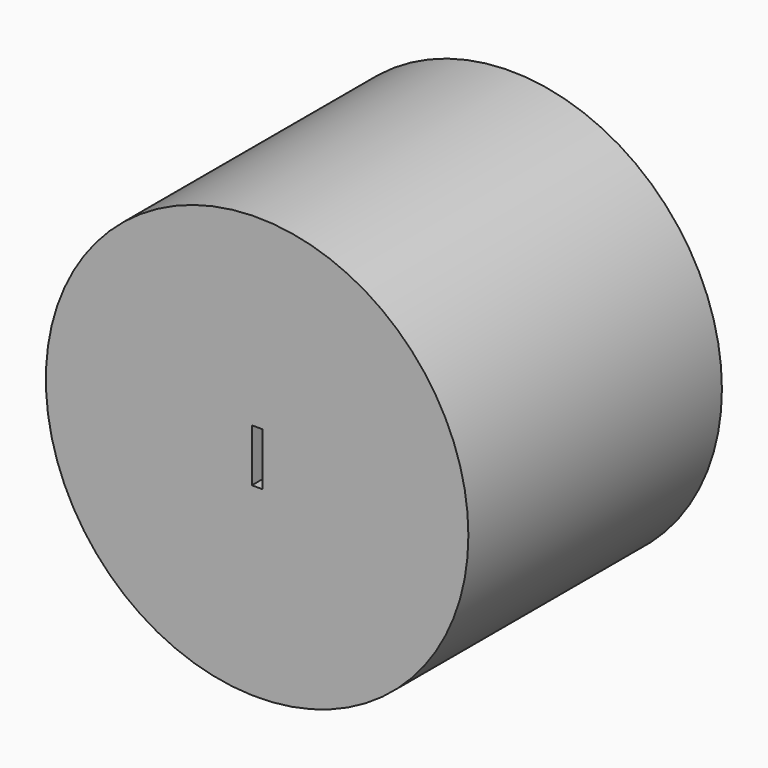
from build123d import *

# Parameters (mm, degrees)
F0_R     = 40
F1_DEPTH = 60
F2_W     = 2
F2_H     = 10
F3_DEPTH = 15


with BuildPart() as f1:
    # F0 (on Front) → F1 (new body)
    with BuildSketch(Plane.XZ):
        Circle(F0_R)
    extrude(amount=F1_DEPTH)

    # F2 (on face) → F3 (cut)
    with BuildSketch(Plane.XZ.offset(60)):
        Rectangle(F2_W, F2_H)
    extrude(amount=-F3_DEPTH, mode=Mode.SUBTRACT)


solid = f1.part
